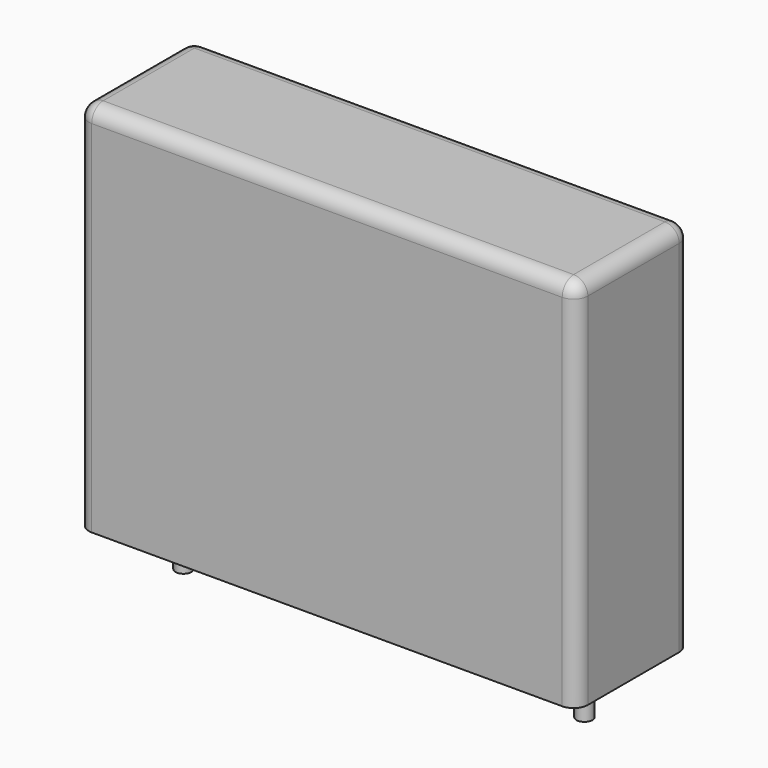
from build123d import *

# Parameters (mm, degrees)
SKETCH_W     = 28
SKETCH_H     = 8
PAD_DEPTH    = 21
FILLET_R     = 0.8
SKETCH001_R  = 0.45
PAD001_DEPTH = 3.2


with BuildPart() as fillet_body:
    # Sketch → Pad (new body)
    with BuildSketch(Plane.XY.offset(0.1)):
        with Locations((11.25, 0)):
            Rectangle(SKETCH_W, SKETCH_H)
    extrude(amount=PAD_DEPTH)

    # Fillet
    fillet_edges = [fillet_body.edges().sort_by_distance(p)[0] for p in [
        (-2.75, 0, 21.1),
        (-2.75, -4, 10.6),
        (11.25, -4, 21.1),
        (25.25, -4, 10.6),
        (25.25, 0, 21.1),
        (25.25, 4, 10.6),
        (11.25, 4, 21.1),
        (-2.75, 4, 10.6),
    ]]
    fillet(fillet_edges, radius=FILLET_R)


with BuildPart() as pad001:
    # Sketch001 → Pad001 (new body)
    with BuildSketch(Plane.XY.offset(0.5)):
        Circle(SKETCH001_R)
        with Locations((22.5, 0)):
            Circle(SKETCH001_R)
    extrude(amount=-PAD001_DEPTH)


solid = Compound([fillet_body.part, pad001.part])
